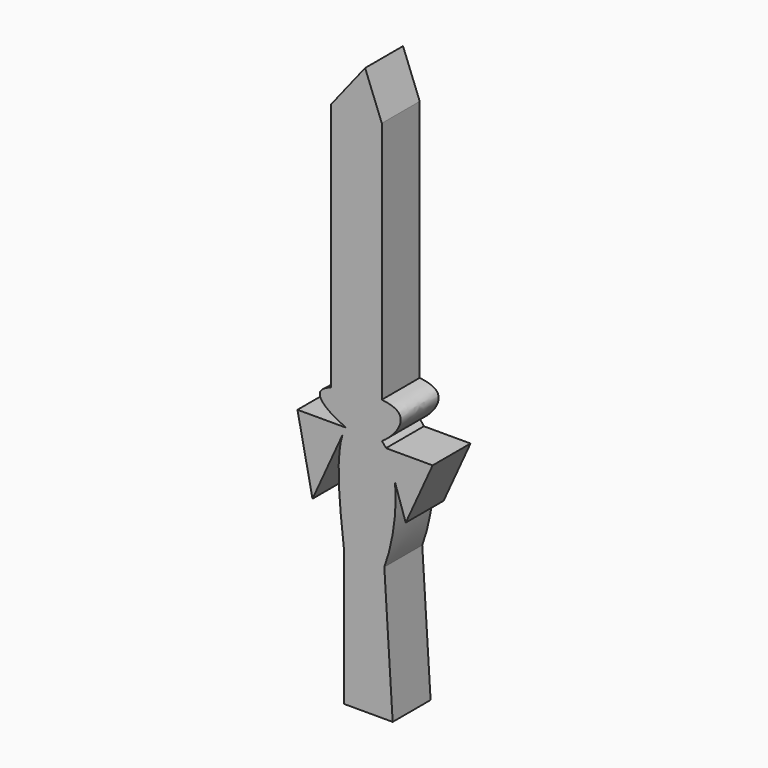
from build123d import *

# Parameters (mm, degrees)
F1_DEPTH = 7.62


with BuildPart() as f1:
    # F0 (on Front) → F1 (new body)
    with BuildSketch(Plane.XZ):
        with BuildLine():
            add(Edge.make_bspline(
                [(-3.6225296477, -15.809470365), (-5.221652466, -20.6566191195), (-3.0213163838, -32.7604657838), (-3.4122510352, -32.7973512532), (-3.3561242744, -32.8900180757)],
                knots=[0.0229994551, 0.0229994551, 0.0229994551, 0.0229994551, 0.2732662158, 0.3066490858, 0.3066490858, 0.3066490858, 0.3066490858], degree=3))
            add(Edge.make_bspline(
                [(-3.3561242744, -32.8900180757), (-3.1358457295, -33.2537039993), (0.4806107603, -36.7303956157), (2.2628287437, -34.532456504), (3.0876353849, -32.3530361056)],
                knots=[0.3066490858, 0.3066490858, 0.3066490858, 0.3066490858, 0.4376655552, 0.570837215, 0.570837215, 0.570837215, 0.570837215], degree=3))
            add(Edge.make_bspline(
                [(3.0876353849, -32.3530361056), (4.2694508133, -29.2302767542), (5.3002211715, -23.9077265842), (4.7680724157, -19.67944375)],
                knots=[0.570837215, 0.570837215, 0.570837215, 0.570837215, 0.7616508122, 0.7616508122, 0.7616508122, 0.7616508122], degree=3))
            Line((4.7680724157, -19.67944375), (3.3561252058, -15.4381711036))
            add(Edge.make_bspline(
                [(3.3561252058, -15.4381711036), (3.1559817041, -15.1441789227), (2.9338306018, -14.8749349929), (2.6951951163, -14.6327009425)],
                knots=[0.8358226137, 0.8358226137, 0.8358226137, 0.8358226137, 0.8553020379, 0.8553020379, 0.8553020379, 0.8553020379], degree=3))
            add(Edge.make_bspline(
                [(2.6951951163, -14.6327009425), (0.8124363798, -15.8162346158), (-0.8659672448, -15.5991068238), (-3.0876344535, -14.6327009425)],
                knots=[0.774708827, 0.774708827, 0.774708827, 0.774708827, 1, 1, 1, 1], degree=3))
            Line((-3.0876344535, -14.6327009425), (-3.6225296477, -15.809470365))
        make_face()
        with BuildLine():
            add(Edge.make_bspline(
                [(-3.3561242744, -32.8900180757), (-3.1358457295, -33.2537039993), (0.4806107603, -36.7303956157), (2.2628287437, -34.532456504), (3.0876353849, -32.3530361056)],
                knots=[0.3066490858, 0.3066490858, 0.3066490858, 0.3066490858, 0.4376655552, 0.570837215, 0.570837215, 0.570837215, 0.570837215], degree=3))
            Line((-3.3561242744, -32.8900180757), (-3.3561242744, -53.8322329521))
            Line((-3.3561242744, -53.8322329521), (4.4300844893, -53.8322329521))
            Line((4.4300844893, -53.8322329521), (3.0876353849, -32.3530361056))
        make_face()
        with BuildLine():
            Line((-8.4574334323, -26.4462586492), (-3.6225296477, -15.809470365))
            add(Edge.make_bspline(
                [(-3.0876344535, -14.6327009425), (-3.2987101155, -14.9678229002), (-3.4755706454, -15.3640185604), (-3.6225296477, -15.809470365)],
                knots=[0, 0, 0, 0, 0.0229994551, 0.0229994551, 0.0229994551, 0.0229994551], degree=3))
            Line((-3.0876344535, -14.6327009425), (-10.8738420531, -14.6327009425))
            Line((-10.8738420531, -14.6327009425), (-8.4574334323, -26.4462586492))
        make_face()
        with BuildLine():
            add(Edge.make_bspline(
                [(-3.0876344535, -14.6327009425), (-3.2987101155, -14.9678229002), (-3.4755706454, -15.3640185604), (-3.6225296477, -15.809470365)],
                knots=[0, 0, 0, 0, 0.0229994551, 0.0229994551, 0.0229994551, 0.0229994551], degree=3))
            Line((-3.6225296477, -15.809470365), (-3.0876344535, -14.6327009425))
        make_face()
        with BuildLine():
            Line((3.3561252058, -15.4381711036), (4.7680724157, -19.67944375))
            add(Edge.make_bspline(
                [(4.7680724157, -19.67944375), (4.5612190651, -18.0358535661), (4.1182115982, -16.5576051031), (3.3561252058, -15.4381711036)],
                knots=[0.7616508122, 0.7616508122, 0.7616508122, 0.7616508122, 0.8358226137, 0.8358226137, 0.8358226137, 0.8358226137], degree=3))
        make_face()
        with BuildLine():
            add(Edge.make_bspline(
                [(4.7680724157, -19.67944375), (4.5612190651, -18.0358535661), (4.1182115982, -16.5576051031), (3.3561252058, -15.4381711036)],
                knots=[0.7616508122, 0.7616508122, 0.7616508122, 0.7616508122, 0.8358226137, 0.8358226137, 0.8358226137, 0.8358226137], degree=3))
            Line((4.7680724157, -19.67944375), (6.5245554865, -24.9556492271))
            Line((6.5245554865, -24.9556492271), (10.8506819233, -15.4381711036))
            Line((10.8506819233, -15.4381711036), (3.3561252058, -15.4381711036))
        make_face()
        with BuildLine():
            add(Edge.make_bspline(
                [(-3.0876344535, -14.6327009425), (-5.2768470806, -13.6804125214), (-8.8119414144, -11.4945501592), (-6.2753688181, -10.0010317936), (-5.4893235481, -9.7083225846)],
                knots=[0, 0, 0, 0, 0.2220000722, 0.288874532, 0.288874532, 0.288874532, 0.288874532], degree=3))
            add(Edge.make_bspline(
                [(2.6951951163, -14.6327009425), (0.9225519342, -12.8333267335), (-1.7596804655, -12.5243264561), (-3.0876344535, -14.6327009425)],
                knots=[0.8553020379, 0.8553020379, 0.8553020379, 0.8553020379, 1, 1, 1, 1], degree=3))
            add(Edge.make_bspline(
                [(2.6801864152, -8.8047577827), (3.8798069065, -8.9398774496), (7.3812464459, -9.985272411), (4.5458992243, -13.4693173455), (2.6951951163, -14.6327009425)],
                knots=[0.4681393873, 0.4681393873, 0.4681393873, 0.4681393873, 0.5532533153, 0.774708827, 0.774708827, 0.774708827, 0.774708827], degree=3))
            add(Edge.make_bspline(
                [(-5.4893235481, -9.7083225846), (-3.3822367481, -8.9236811218), (0.1535753352, -8.5201720741), (2.6801864152, -8.8047577827)],
                knots=[0.288874532, 0.288874532, 0.288874532, 0.288874532, 0.4681393873, 0.4681393873, 0.4681393873, 0.4681393873], degree=3))
        make_face()
        with BuildLine():
            add(Edge.make_bspline(
                [(2.6951951163, -14.6327009425), (0.9225519342, -12.8333267335), (-1.7596804655, -12.5243264561), (-3.0876344535, -14.6327009425)],
                knots=[0.8553020379, 0.8553020379, 0.8553020379, 0.8553020379, 1, 1, 1, 1], degree=3))
            add(Edge.make_bspline(
                [(2.6951951163, -14.6327009425), (0.8124363798, -15.8162346158), (-0.8659672448, -15.5991068238), (-3.0876344535, -14.6327009425)],
                knots=[0.774708827, 0.774708827, 0.774708827, 0.774708827, 1, 1, 1, 1], degree=3))
        make_face()
        with BuildLine():
            Line((-5.4893235481, 30.3271058947), (-5.4893235481, -9.7083225846))
            add(Edge.make_bspline(
                [(-5.4893235481, -9.7083225846), (-3.3822367481, -8.9236811218), (0.1535753352, -8.5201720741), (2.6801864152, -8.8047577827)],
                knots=[0.288874532, 0.288874532, 0.288874532, 0.288874532, 0.4681393873, 0.4681393873, 0.4681393873, 0.4681393873], degree=3))
            Line((2.6801864152, -8.8047577827), (2.6801864152, 30.3271058947))
            Line((2.6801864152, 30.3271058947), (0, 37.272028625))
            Line((0, 37.272028625), (-5.4893235481, 30.3271058947))
        make_face()
    extrude(amount=F1_DEPTH)


solid = f1.part
